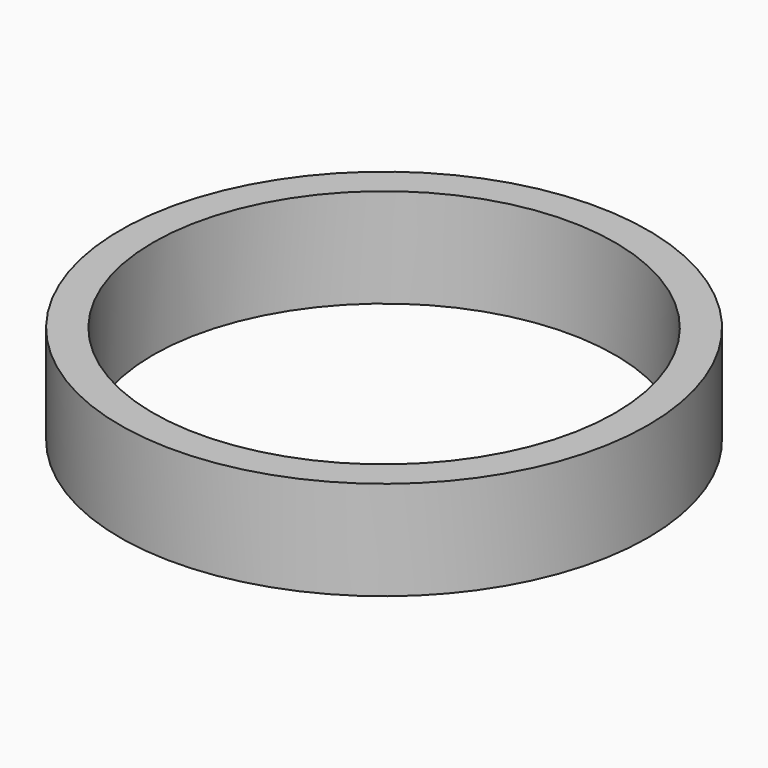
from build123d import *

# Parameters (mm, degrees)
CYLINDER001_R     = 14
CYLINDER001_DEPTH = 6
CYLINDER_R        = 16
CYLINDER_DEPTH    = 6


with BuildPart() as inner:
    # Cylinder001 → Cylinder001 (new body)
    with BuildSketch(Plane.XY):
        Circle(CYLINDER001_R)
    extrude(amount=CYLINDER001_DEPTH)


with BuildPart() as ring:
    # Cylinder → Cylinder (new body)
    with BuildSketch(Plane.XY):
        Circle(CYLINDER_R)
    extrude(amount=CYLINDER_DEPTH)

    # Cut: cut Inner
    add(inner.part, mode=Mode.SUBTRACT)


solid = ring.part
